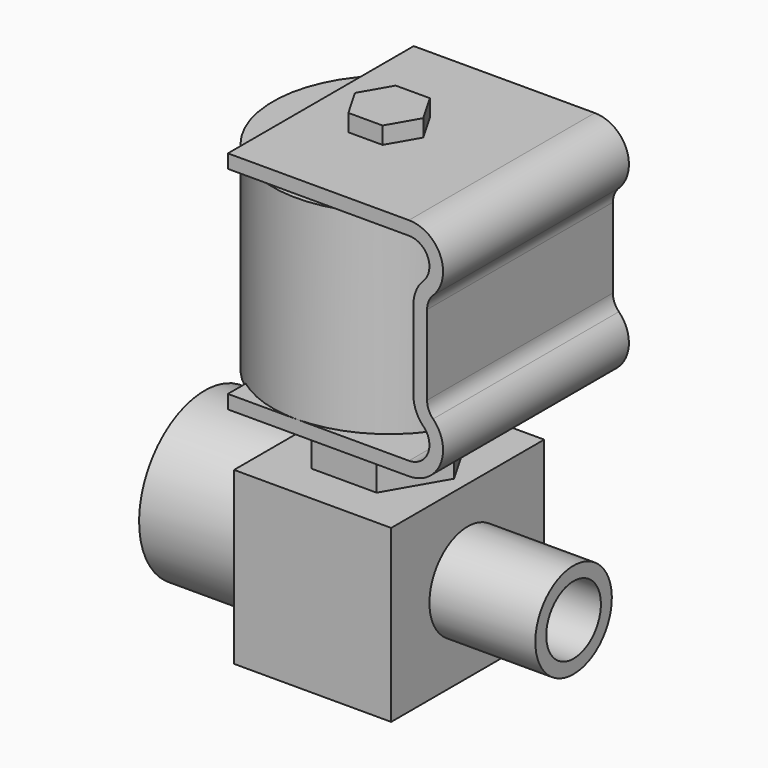
from build123d import *

# Parameters (mm, degrees)
PAD004_DEPTH            = 34
CYLINDER001_R           = 5
CYLINDER001_DEPTH       = 16
CYLINDER001_PITCH_ANGLE = 90
CYLINDER003_R           = 7
CYLINDER003_DEPTH       = 16
CYLINDER003_PITCH_ANGLE = 90
CYLINDER002_R           = 7.5
CYLINDER002_DEPTH       = 16
CYLINDER002_PITCH_ANGLE = 90
CYLINDER_R              = 12
CYLINDER_DEPTH          = 16
CYLINDER_PITCH_ANGLE    = 90
BOX_W                   = 23
BOX_H                   = 28
BOX_DEPTH               = 25
PAD_DEPTH               = 6
SKETCH001_R             = 10
PAD001_DEPTH            = 5
SKETCH002_R             = 17
PAD002_DEPTH            = 29
PAD003_DEPTH            = 5


with BuildPart() as pad004:
    # Sketch004 → Pad004 (new body)
    with BuildSketch(Plane.XZ.offset(-17)):
        with BuildLine():
            Line((-10, 55), (16.5, 55))
            ThreePointArc((20.035534, 46.464466), (21.119398, 51.913417), (16.5, 55))
            ThreePointArc((20.035534, 46.464466), (19.385216, 45.491196), (19.156854, 44.343146))
            Line((19.156854, 44.343146), (19.156854, 32.656854))
            ThreePointArc((19.156854, 32.656854), (19.384362, 31.50845), (20.035534, 30.535534))
            ThreePointArc((16.5, 22), (21.119398, 25.086583), (20.035534, 30.535534))
            Line((-10, 22), (16.5, 22))
            Line((-10, 24), (-10, 22))
            Line((-10, 24), (16.5, 24))
            ThreePointArc((16.5, 24), (19.271639, 25.85195), (18.62132, 29.12132))
            ThreePointArc((17.156854, 32.656854), (17.537457, 30.743437), (18.62132, 29.12132))
            Line((17.156854, 44.343146), (17.156854, 32.656854))
            ThreePointArc((18.62132, 47.87868), (17.537457, 46.256563), (17.156854, 44.343146))
            ThreePointArc((18.62132, 47.87868), (19.271639, 51.14805), (16.5, 53))
            Line((-10, 53), (16.5, 53))
            Line((-10, 55), (-10, 53))
        make_face()
    extrude(amount=PAD004_DEPTH)


with BuildPart() as cylinder001:
    # Cylinder001 → Cylinder001 (new body)
    with BuildSketch(Plane.XY):
        Circle(CYLINDER001_R)
    extrude(amount=CYLINDER001_DEPTH)


with BuildPart() as cylinder001_1:
    # Cylinder001 pitch: moved
    add(cylinder001.part.rotate(Axis((0, 0, 0), (0, 1, 0)), CYLINDER001_PITCH_ANGLE))


with BuildPart() as cylinder001_2:
    # Cylinder001 placement: moved
    add(cylinder001_1.part.moved(Location((11, 0, 0))))


with BuildPart() as cut001:
    # Cylinder003 → Cylinder003 (new body)
    with BuildSketch(Plane.XY):
        Circle(CYLINDER003_R)
    extrude(amount=CYLINDER003_DEPTH)


with BuildPart() as cut001_1:
    # Cylinder003 pitch: moved
    add(cut001.part.rotate(Axis((0, 0, 0), (0, 1, 0)), CYLINDER003_PITCH_ANGLE))


with BuildPart() as cut001_2:
    # Cylinder003 placement: moved
    add(cut001_1.part.moved(Location((11, 0, 0))))

    # Cut001: cut Cylinder001
    add(cylinder001_2.part, mode=Mode.SUBTRACT)


with BuildPart() as cylinder002:
    # Cylinder002 → Cylinder002 (new body)
    with BuildSketch(Plane.XY):
        Circle(CYLINDER002_R)
    extrude(amount=CYLINDER002_DEPTH)


with BuildPart() as cylinder002_1:
    # Cylinder002 pitch: moved
    add(cylinder002.part.rotate(Axis((0, 0, 0), (0, 1, 0)), CYLINDER002_PITCH_ANGLE))


with BuildPart() as cylinder002_2:
    # Cylinder002 placement: moved
    add(cylinder002_1.part.moved(Location((-27, 0, 0))))


with BuildPart() as cut:
    # Cylinder → Cylinder (new body)
    with BuildSketch(Plane.XY):
        Circle(CYLINDER_R)
    extrude(amount=CYLINDER_DEPTH)


with BuildPart() as cut_1:
    # Cylinder pitch: moved
    add(cut.part.rotate(Axis((0, 0, 0), (0, 1, 0)), CYLINDER_PITCH_ANGLE))


with BuildPart() as cut_2:
    # Cylinder placement: moved
    add(cut_1.part.moved(Location((-27, 0, 0))))

    # Cut: cut Cylinder002
    add(cylinder002_2.part, mode=Mode.SUBTRACT)


with BuildPart() as fusion002:
    # Box → Box (new body)
    with BuildSketch(Plane(origin=(-11.5, -14, -12.5), x_dir=(1, 0, 0), z_dir=(0, 0, 1))):
        with Locations((11.5, 14)):
            Rectangle(BOX_W, BOX_H)
    extrude(amount=BOX_DEPTH)

    # Fusion: union Cut
    add(cut_2.part)

    # Fusion001: union Cut001
    add(cut001_2.part)

    # Sketch → Pad (new body)
    with BuildSketch(Plane.XY.offset(12.5)):
        Polygon((4.75, 8.227241), (-4.75, 8.227241), (-9.5, 0), (-4.75, -8.227241), (4.75, -8.227241), (9.5, 0), align=None)
    extrude(amount=PAD_DEPTH)

    # Sketch001 → Pad001 (new body)
    with BuildSketch(Plane.XY.offset(18.5)):
        Circle(SKETCH001_R)
    extrude(amount=PAD001_DEPTH)

    # Sketch002 → Pad002 (new body)
    with BuildSketch(Plane.XY.offset(23.5)):
        Circle(SKETCH002_R)
    extrude(amount=PAD002_DEPTH)

    # Sketch003 → Pad003 (new body)
    with BuildSketch(Plane.XY.offset(52.5)):
        Polygon((2.5, 4.330127), (-2.5, 4.330127), (-5, 0), (-2.5, -4.330127), (2.5, -4.330127), (5, 0), align=None)
    extrude(amount=PAD003_DEPTH)

    # Fusion002: union Pad004
    add(pad004.part)


solid = fusion002.part
